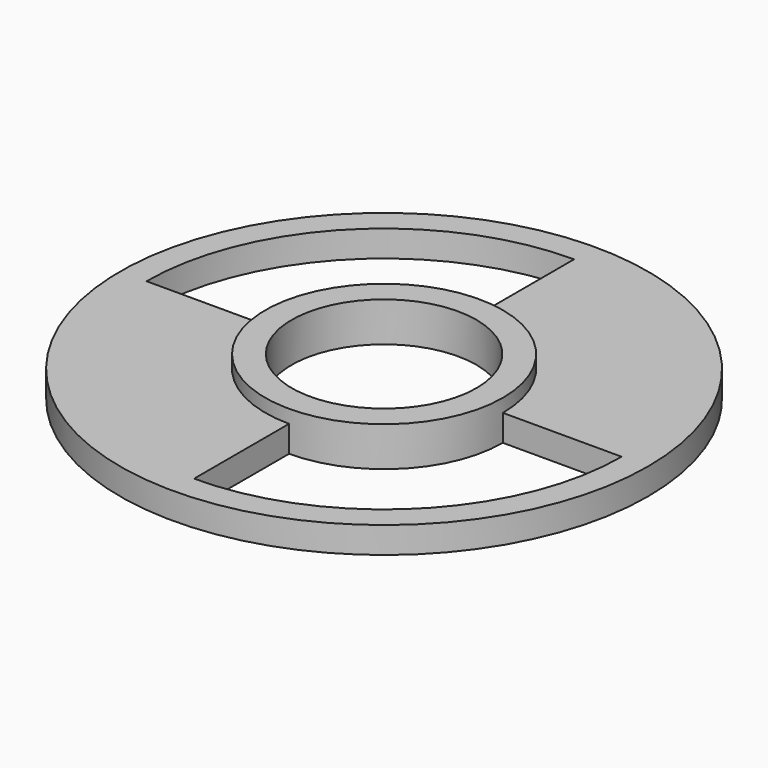
from build123d import *

# Parameters (mm, degrees)
TUBE002_R     = 9
TUBE002_R_2   = 7
TUBE002_DEPTH = 3
BOX001_W      = 20
BOX001_H      = 20
BOX001_DEPTH  = 10
BOX_W         = 20
BOX_H         = 20
BOX_DEPTH     = 10
TUBE_R        = 18
TUBE_R_2      = 9
TUBE_DEPTH    = 10
TUBE001_R     = 20
TUBE001_R_2   = 7
TUBE001_DEPTH = 2


with BuildPart() as tube002:
    # Tube002 → Tube002 (new body)
    with BuildSketch(Plane.XY):
        Circle(TUBE002_R)
        Circle(TUBE002_R_2, mode=Mode.SUBTRACT)
    extrude(amount=TUBE002_DEPTH)


with BuildPart() as cubo001:
    # Box001 → Box001 (new body)
    with BuildSketch(Plane(origin=(-20, -20, 0), x_dir=(1, 0, 0), z_dir=(0, 0, 1))):
        with Locations((10, 10)):
            Rectangle(BOX001_W, BOX001_H)
    extrude(amount=BOX001_DEPTH)


with BuildPart() as cubo:
    # Box → Box (new body)
    with BuildSketch(Plane.XY):
        with Locations((10, 10)):
            Rectangle(BOX_W, BOX_H)
    extrude(amount=BOX_DEPTH)


with BuildPart() as cut001:
    # Tube → Tube (new body)
    with BuildSketch(Plane.XY):
        Circle(TUBE_R)
        Circle(TUBE_R_2, mode=Mode.SUBTRACT)
    extrude(amount=TUBE_DEPTH)

    # Cut: cut Cubo
    add(cubo.part, mode=Mode.SUBTRACT)

    # Cut001: cut Cubo001
    add(cubo001.part, mode=Mode.SUBTRACT)


with BuildPart() as fusion:
    # Tube001 → Tube001 (new body)
    with BuildSketch(Plane.XY):
        Circle(TUBE001_R)
        Circle(TUBE001_R_2, mode=Mode.SUBTRACT)
    extrude(amount=TUBE001_DEPTH)

    # Cut002: cut Cut001
    add(cut001.part, mode=Mode.SUBTRACT)

    # Fusion: union Tube002
    add(tube002.part)


solid = fusion.part
